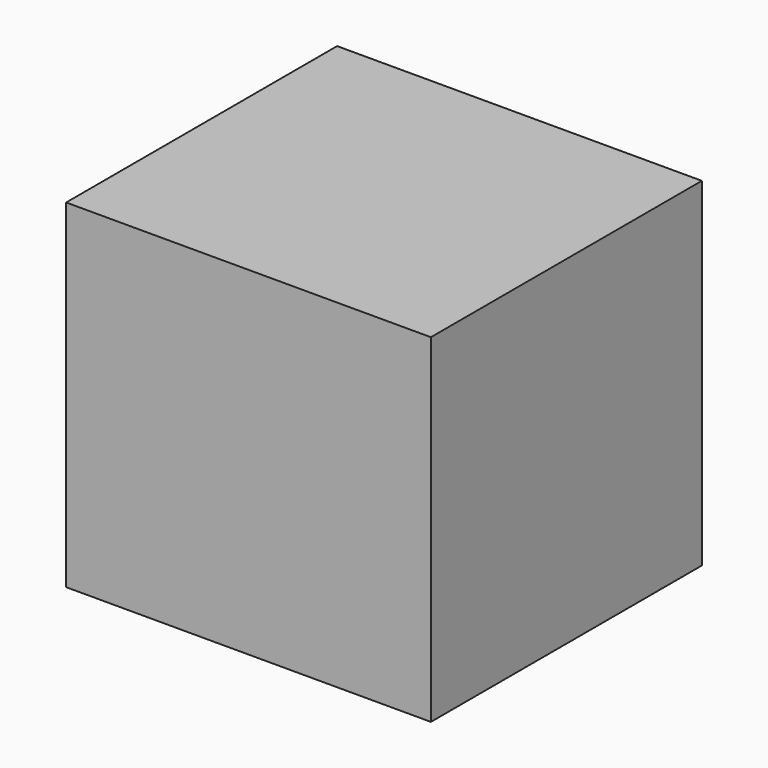
from build123d import *

# Parameters (mm, degrees)
F0_W     = 41.275
F0_H     = 41.275
F1_DEPTH = 41.275
F2_DEPTH = 38.1
F3_DEPTH = 41.275
F4_DEPTH = 15.875


with BuildPart() as f1:
    # F0 (on Front) → F1 (new body)
    with BuildSketch(Plane.XZ):
        Rectangle(F0_W, F0_H)
    extrude(amount=F1_DEPTH)

    # F2 (cut): a face of the model
    f2_faces = [f1.faces().sort_by_distance(p)[0] for p in [
        (20.6375, -20.6375, 0),
    ]]
    extrude(f2_faces, amount=-F2_DEPTH, mode=Mode.SUBTRACT)

    # F3 (add): a face of the model
    f3_faces = [f1.faces().sort_by_distance(p)[0] for p in [
        (-17.4625, -20.6375, 0),
    ]]
    extrude(f3_faces, amount=F3_DEPTH)

    # F4 (add): a face of the model
    f4_faces = [f1.faces().sort_by_distance(p)[0] for p in [
        (23.8125, -20.6375, 0),
    ]]
    extrude(f4_faces, amount=-F4_DEPTH)


solid = f1.part
